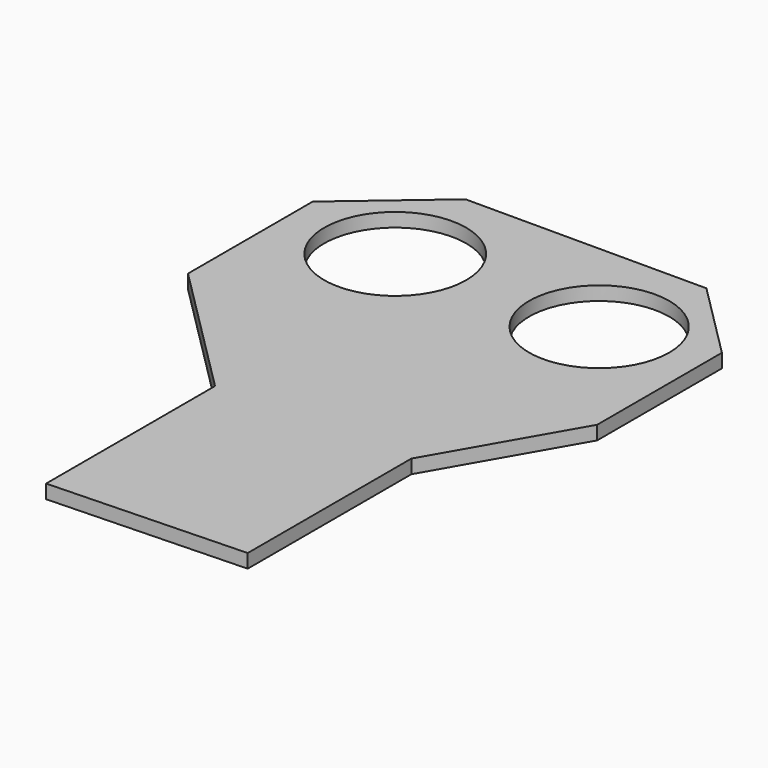
from build123d import *

# Parameters (mm, degrees)
F0_R     = 10.294691
F0_R_2   = 10.154452
F1_DEPTH = 2


with BuildPart() as f1:
    # F0 (on Top) → F1 (new body)
    with BuildSketch(Plane.XY):
        Polygon((-24.876054, -22.603722), (-24.876054, -53.220406), (3.587892, -52.263632), (3.587892, -22.603722), (14.829955, -2.98991), (14.829955, 19.611636), (3.587892, 30.853701), (-31.334262, 30.853701), (-44.489868, 19.611636), (-44.489868, -2.98991), align=None)
        with Locations((-29.181527, 15.427939)):
            Circle(F0_R, mode=Mode.SUBTRACT)
        with Locations((0, 15.906323)):
            Circle(F0_R_2, mode=Mode.SUBTRACT)
    extrude(amount=F1_DEPTH)


solid = f1.part
